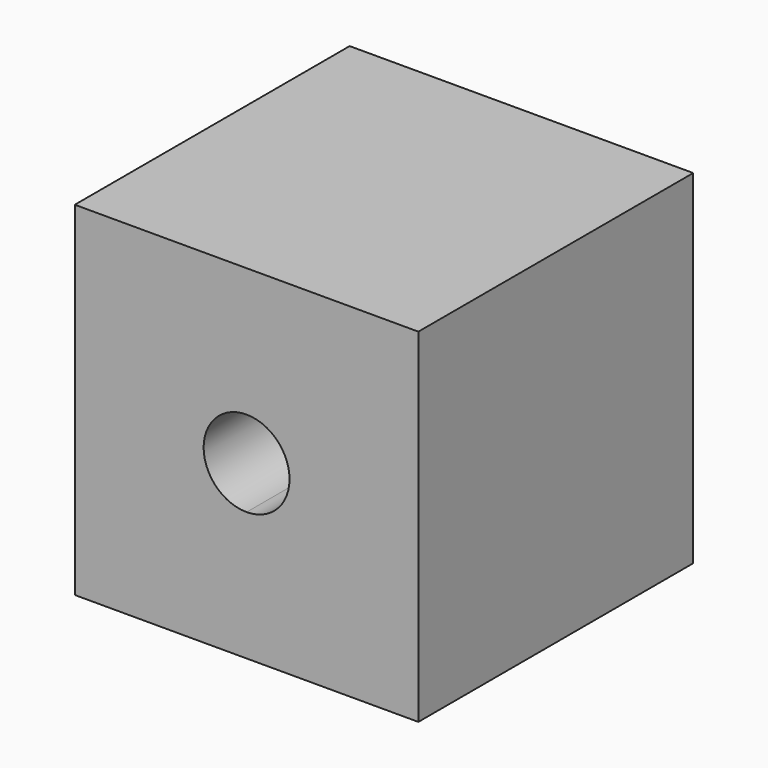
from build123d import *

# Parameters (mm, degrees)
F0_W     = 50.8
F0_H     = 50.8
F1_DEPTH = 50.8
F3_DEPTH = 50.8


with BuildPart() as f1:
    # F0 (on Right) → F1 (new body)
    with BuildSketch(Plane.YZ):
        with Locations((-10.7363179162, 35.7038274211)):
            Rectangle(F0_W, F0_H)
    extrude(amount=-F1_DEPTH)

    # F2 (on face) → F3 (cut, through all)
    with BuildSketch(Plane.XZ.offset(36.1363179162)):
        with BuildLine():
            Line((-25.4, 29.3538274211), (-25.4, 42.0538274211))
            ThreePointArc((-25.4, 42.0538274211), (-31.75, 35.7038274211), (-25.4, 29.3538274211))
        make_face()
        with BuildLine():
            ThreePointArc((-19.05, 35.7038274211), (-20.9098719395, 40.1939554816), (-25.4, 42.0538274211))
            Line((-25.4, 42.0538274211), (-25.4, 29.3538274211))
            ThreePointArc((-25.4, 29.3538274211), (-20.9098719395, 31.2136993605), (-19.05, 35.7038274211))
        make_face()
    extrude(amount=-F3_DEPTH, mode=Mode.SUBTRACT)


solid = f1.part
